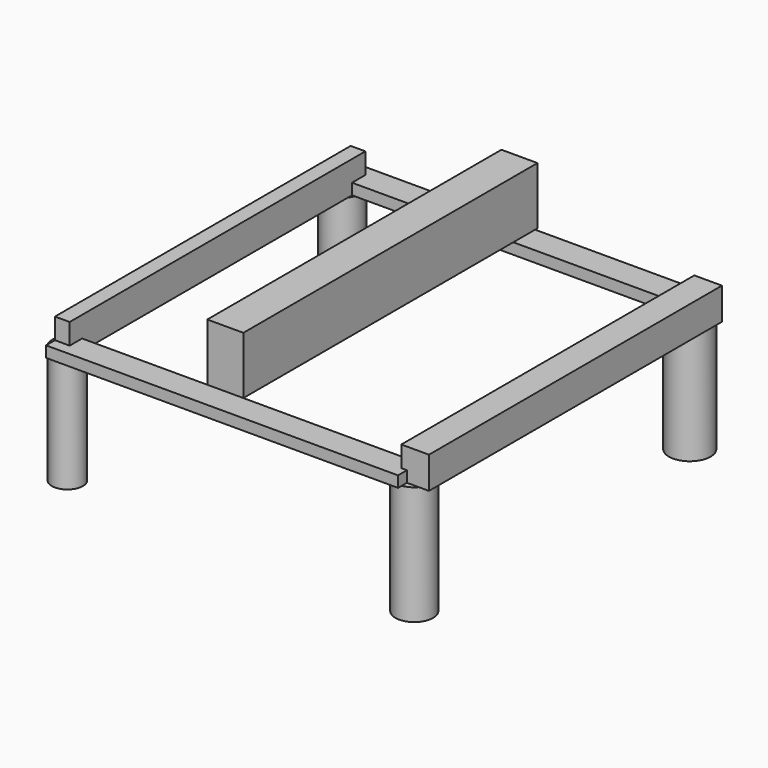
from build123d import *

# Parameters (mm, degrees)
F0_R     = 6.7502519556
F1_DEPTH = 51.6322273761
F0_R_2   = 8.2428902102
F0_R_3   = 8.2043816193
F0_R_4   = 9.0544508345
F2_W     = 153.1884595752
F2_H     = 11.5868598223
F3_DEPTH = 4.8059914261
F2_W_2   = 159.1729074717
F2_H_2   = 11.8715316057
F4_W     = 6.4072363684
F4_H     = 160.8719712535
F5_DEPTH = 13.8763096184
F4_W_2   = 12.0313093066
F4_H_2   = 159.393261973
F6_W     = 15.6986350194
F6_H     = 160.0341200829
F7_DEPTH = 25


with BuildPart() as f1:
    # F0 (on Top) → F1 (new body)
    with BuildSketch(Plane.XY):
        with Locations((-76.0920867324, -74.4864344597)):
            Circle(F0_R)
    extrude(amount=F1_DEPTH)


with BuildPart() as f1b:
    # F0 (on Top) → F1, piece 2 (new body)
    with BuildSketch(Plane.XY):
        with Locations((-76.2024596334, 75.1259997487)):
            Circle(F0_R_2)
    extrude(amount=F1_DEPTH)


with BuildPart() as f1c:
    # F0 (on Top) → F1, piece 3 (new body)
    with BuildSketch(Plane.XY):
        with Locations((76.0536789894, -75.9104341269)):
            Circle(F0_R_3)
    extrude(amount=F1_DEPTH)


with BuildPart() as f1d:
    # F0 (on Top) → F1, piece 4 (new body)
    with BuildSketch(Plane.XY):
        with Locations((74.6953114867, 75.6666362286)):
            Circle(F0_R_4)
    extrude(amount=F1_DEPTH)


with BuildPart() as f3:
    # F2 (on face) → F3 (new body)
    with BuildSketch(Plane.XY.offset(51.6322273761)):
        with Locations((0.5021430552, -80.2798643708)):
            Rectangle(F2_W, F2_H)
    extrude(amount=F3_DEPTH)



with BuildPart() as f3b:
    # F2 (on face) → F3, piece 2 (new body)
    with BuildSketch(Plane.XY.offset(51.6322273761)):
        with Locations((-2.490080893, 78.3090814948)):
            Rectangle(F2_W_2, F2_H_2)
    extrude(amount=F3_DEPTH)


with BuildPart() as f5:
    # F4 (on face) → F5 (new body)
    with BuildSketch(Plane.XY.offset(51.6322273761)):
        with Locations((-72.8882726585, -0.8007007857)):
            Rectangle(F4_W, F4_H)
    extrude(amount=F5_DEPTH)


with BuildPart() as f5b:
    # F4 (on face) → F5, piece 2 (new body)
    with BuildSketch(Plane.XY.offset(51.6322273761)):
        with Locations((80.6747414172, -1.5400554259)):
            Rectangle(F4_W_2, F4_H_2)
    extrude(amount=F5_DEPTH)


with BuildPart() as f3_1:
    add(f3.part)

    add(f3b.part)  # F7 merges F3b
    # F6 (on face) → F7 (join)
    with BuildSketch(Plane.XY.offset(56.4382188022)):
        with Locations((-7.3471744545, 5.5306255817)):
            Rectangle(F6_W, F6_H)
    extrude(amount=F7_DEPTH)


solid = Compound([f1.part, f1b.part, f1c.part, f1d.part, f5.part, f5b.part, f3_1.part])
